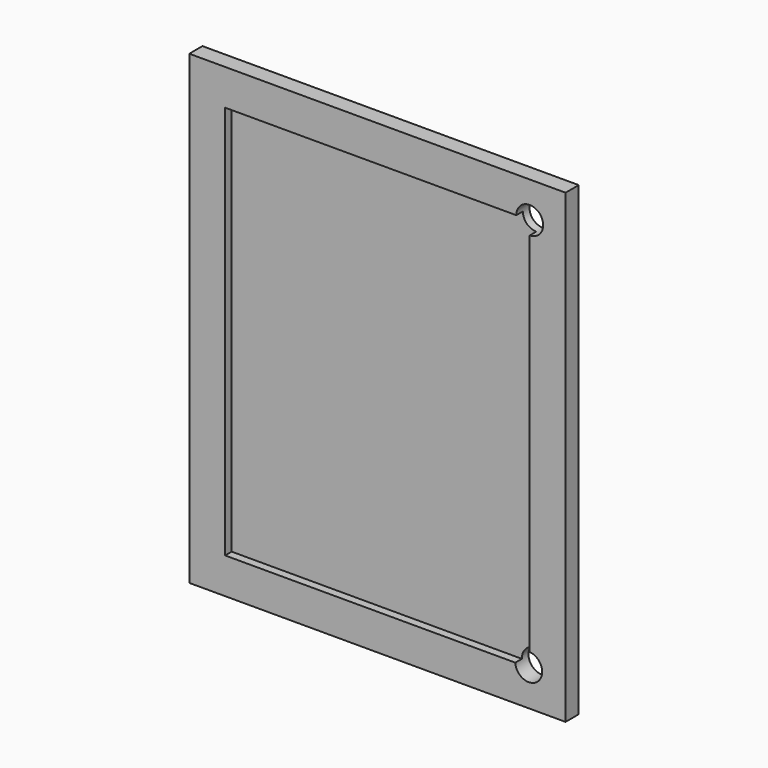
from build123d import *

# Parameters (mm, degrees)
F0_W     = 266.7
F0_H     = 330.2
F1_DEPTH = 5.842
F2_W     = 266.7
F2_H     = 330.2
F2_W_2   = 215.9
F2_H_2   = 279.4
F3_DEPTH = 5.842
F6_R     = 9.525
F7_DEPTH = 11.685


with BuildPart() as f1:
    # F0 (on Front) → F1 (new body)
    with BuildSketch(Plane.XZ):
        with Locations((133.35, 165.1)):
            Rectangle(F0_W, F0_H)
    extrude(amount=F1_DEPTH)


with BuildPart() as f3:
    # F2 (on face) → F3 (new body)
    with BuildSketch(Plane.XZ.offset(5.842)):
        with Locations((133.35, 165.1)):
            Rectangle(F2_W, F2_H)
        with Locations((133.35, 165.1)):
            Rectangle(F2_W_2, F2_H_2, mode=Mode.SUBTRACT)
    extrude(amount=F3_DEPTH)


with BuildPart() as f1_1:
    add(f1.part)

    # F4: union F3
    add(f3.part)

    # F6 (on face) → F7 (cut, through all)
    with BuildSketch(Plane.XZ.offset(11.684)):
        with Locations((241.3, 304.8)):
            Circle(F6_R)
        with Locations((240.601733, 25.828205)):
            Circle(F6_R)
    extrude(amount=-F7_DEPTH, mode=Mode.SUBTRACT)


solid = f1_1.part
